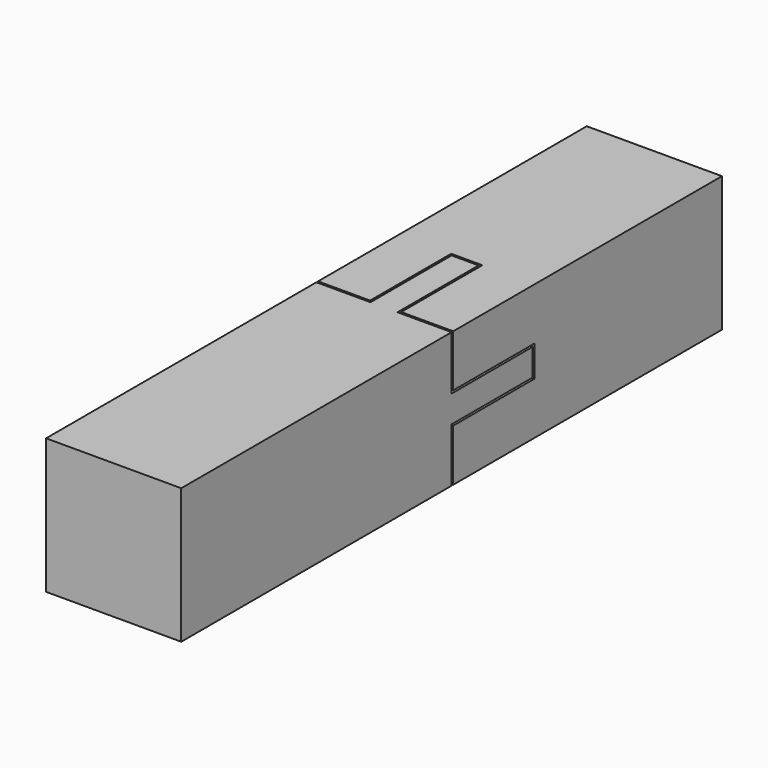
from build123d import *

# Parameters (mm, degrees)
F0_W      = 20
F0_H      = 20
F1_DEPTH  = 50
F2_W      = 4
F2_H      = 4
F3_DEPTH  = 15
F4_W      = 20
F4_H      = 20
F5_DEPTH  = 50
F6_OFFSET = 0.3


with BuildPart() as f1:
    # F0 (on Front) → F1 (new body)
    with BuildSketch(Plane.XZ):
        Rectangle(F0_W, F0_H)
    extrude(amount=F1_DEPTH)

    # F2 (on face) → F3 (join)
    with BuildSketch(Plane(origin=(0, 0, 0), x_dir=(-1, 0, 0), z_dir=(0, 1, 0))):
        with Locations((0, 8)):
            Rectangle(F2_W, F2_H)
        with Locations((0, -8)):
            Rectangle(F2_W, F2_H)
        with Locations((-8, 0)):
            Rectangle(F2_W, F2_H)
        with Locations((8, 0)):
            Rectangle(F2_W, F2_H)
    extrude(amount=F3_DEPTH)


with BuildPart() as f5:
    # F4 (on Front) → F5 (new body)
    with BuildSketch(Plane.XZ):
        Rectangle(F4_W, F4_H)
    extrude(amount=-F5_DEPTH)

    # F6: cut F1, made larger all round first
    f6_tool = offset(f1.part, amount=F6_OFFSET, kind=Kind.INTERSECTION, mode=Mode.PRIVATE)
    add(f6_tool, mode=Mode.SUBTRACT)


solid = Compound([f1.part, f5.part])
